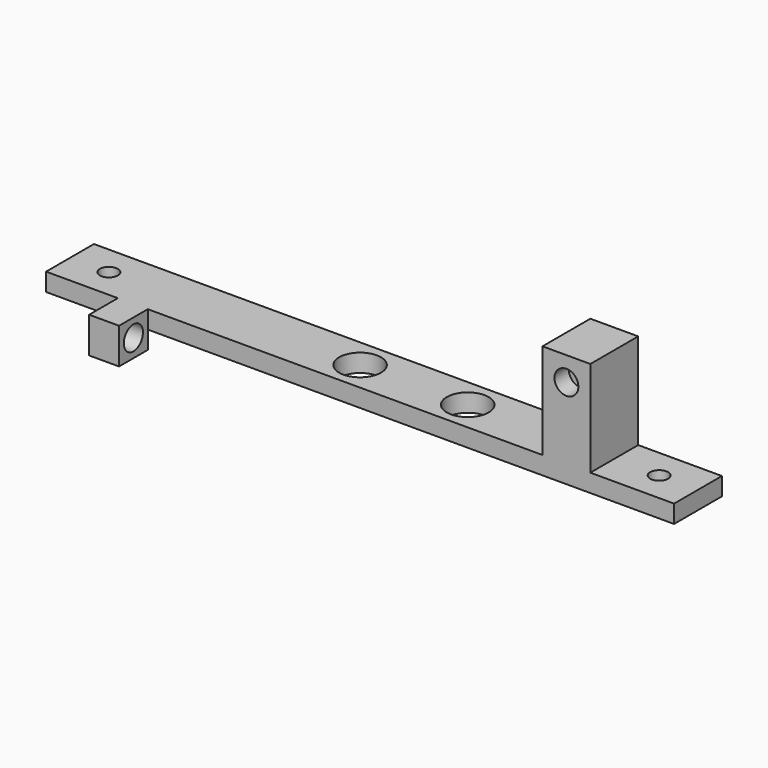
from build123d import *

# Parameters (mm, degrees)
F0_W      = 105
F0_H      = 5
F1_DEPTH  = 3
F3_DEPTH  = 3.001
F4_R      = 3.5
F5_DEPTH  = 3.001
F6_DEPTH  = 3.001
F7_W      = 8
F7_H      = 10
F8_DEPTH  = 16
F9_R      = 1
F10_DEPTH = 10.001
F11_R     = 2
F12_DEPTH = 3
F13_W     = 5
F13_H     = 6
F14_DEPTH = 6
F15_R     = 1
F16_DEPTH = 93.001
F17_R     = 2
F18_DEPTH = 3


with BuildPart() as f1:
    # F0 (on Top) → F1 (new body)
    with BuildSketch(Plane.XY):
        with Locations((0, -2.5)):
            Rectangle(F0_W, F0_H)
        with Locations((0, 2.5)):
            Rectangle(F0_W, F0_H)
    extrude(amount=F1_DEPTH)

    # F2 (on face) → F3 (cut, through all)
    with BuildSketch(Plane.XY.offset(3)):
        with BuildLine():
            ThreePointArc((-44.5, 0), (-46, 1.5), (-47.5, 0))
            Line((-47.5, 0), (-44.5, 0))
        make_face()
        with BuildLine():
            ThreePointArc((47.5, 0), (46, 1.5), (44.5, 0))
            Line((44.5, 0), (47.5, 0))
        make_face()
        with BuildLine():
            Line((47.5, 0), (44.5, 0))
            ThreePointArc((44.5, 0), (46, -1.5), (47.5, 0))
        make_face()
        with BuildLine():
            Line((-44.5, 0), (-47.5, 0))
            ThreePointArc((-47.5, 0), (-46, -1.5), (-44.5, 0))
        make_face()
    extrude(amount=-F3_DEPTH, mode=Mode.SUBTRACT)

    # F4 (on face) → F5 (cut, through all)
    with BuildSketch(Plane.XY.offset(3)):
        with Locations((-4, 0)):
            Circle(F4_R)
        with Locations((14, 0)):
            Circle(F4_R)
    extrude(amount=-F5_DEPTH, mode=Mode.SUBTRACT)

    # F4 (on face) → F6 (cut, through all)
    with BuildSketch(Plane.XY.offset(3)):
        with Locations((-4, 0)):
            Circle(F4_R)
        with Locations((14, 0)):
            Circle(F4_R)
    extrude(amount=-F6_DEPTH, mode=Mode.SUBTRACT)

    # F7 (on face) → F8 (join)
    with BuildSketch(Plane.XY.offset(3)):
        with Locations((34.5, 0)):
            Rectangle(F7_W, F7_H)
    extrude(amount=F8_DEPTH)

    # F9 (on face) → F10 (cut, through all)
    with BuildSketch(Plane.XZ.offset(5)):
        with Locations((34.5, 15)):
            Circle(F9_R)
    extrude(amount=-F10_DEPTH, mode=Mode.SUBTRACT)

    # F11 (on face) → F12 (cut)
    with BuildSketch(Plane.XZ.offset(5)):
        with Locations((34.5, 15)):
            Circle(F11_R)
    extrude(amount=-F12_DEPTH, mode=Mode.SUBTRACT)

    # F13 (on face) → F14 (join)
    with BuildSketch(Plane.XY.offset(3)):
        with Locations((-38, -8)):
            Rectangle(F13_W, F13_H)
    extrude(amount=-F14_DEPTH)

    # F15 (on face) → F16 (cut, through all)
    with BuildSketch(Plane(origin=(-40.5, 0, 0), x_dir=(0, -1, 0), z_dir=(-1, 0, 0))):
        with Locations((8, 0)):
            Circle(F15_R)
    extrude(amount=-F16_DEPTH, mode=Mode.SUBTRACT)

    # F17 (on face) → F18 (cut)
    with BuildSketch(Plane.YZ.offset(-35.5)):
        with Locations((-8, 0)):
            Circle(F17_R)
    extrude(amount=-F18_DEPTH, mode=Mode.SUBTRACT)


solid = f1.part
